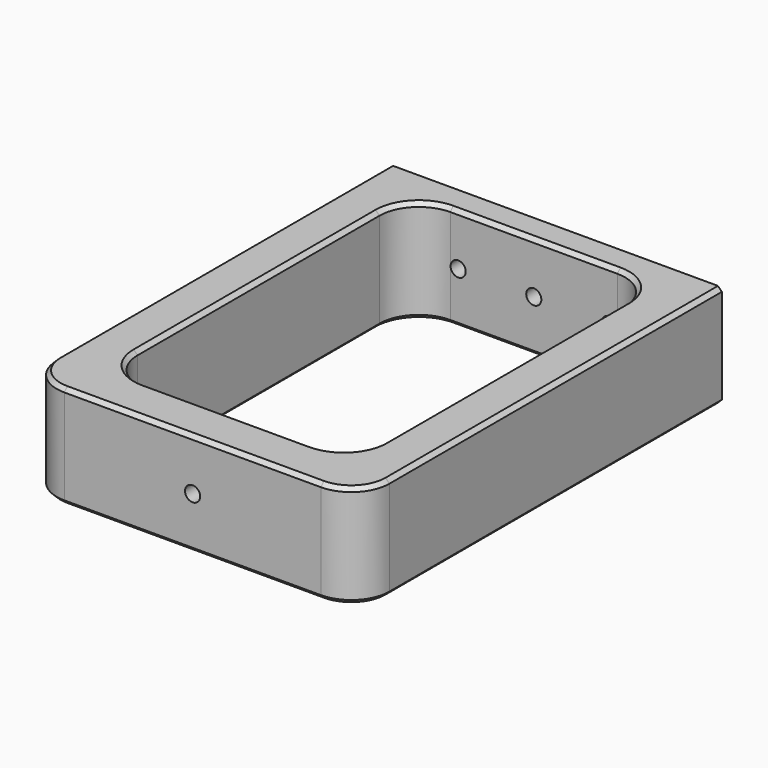
from build123d import *

# Parameters (mm, degrees)
F0_W      = 34.925
F0_H      = 52.705
F1_DEPTH  = 10.795
F2_DEPTH  = 10.795
F3_W      = 25.781
F3_H      = 43.18
F3_H_2    = 36.83
F4_DEPTH  = 25.4
F5_R      = 8.255
F6_W      = 34.925
F6_H      = 19.05
F7_DEPTH  = 5.08
F8_R      = 1.5875
F9_DEPTH  = 50.8
F10_R     = 7.493
F11_DEPTH = 76.2
F12_R     = 8.001
F13_R     = 1.5875
F14_DEPTH = 25.4
F15_SIZE  = 0.762
F16_R     = 2.54
F17_SIZE  = 0.8255
F19_W     = 73.3495355977
F19_H     = 43.3503502247
F20_DEPTH = 25.4
F21_R     = 1.5875
F22_DEPTH = 25.4


with BuildPart() as f1:
    # F0 (on Top) → F1 (new body)
    with BuildSketch(Plane.XY):
        with Locations((-17.4625, -26.3525)):
            Rectangle(F0_W, F0_H)
        with Locations((-17.4625, 26.3525)):
            Rectangle(F0_W, F0_H)
        Polygon((0, 52.705), (0, 0), (0, -52.705), (34.925, -52.705), (34.925, 0), (34.925, 52.705), align=None)
    extrude(amount=F1_DEPTH)

    # F0 (on Top) → F2 (join)
    with BuildSketch(Plane.XY):
        with Locations((-17.4625, -26.3525)):
            Rectangle(F0_W, F0_H)
        with Locations((-17.4625, 26.3525)):
            Rectangle(F0_W, F0_H)
        Polygon((0, 52.705), (0, 0), (0, -52.705), (34.925, -52.705), (34.925, 0), (34.925, 52.705), align=None)
    extrude(amount=-F2_DEPTH)

    # F3 (on face) → F4 (cut)
    with BuildSketch(Plane.XY.offset(10.795)):
        with Locations((-12.8905, -21.59)):
            Rectangle(F3_W, F3_H)
        with Locations((-12.8905, 18.415)):
            Rectangle(F3_W, F3_H_2)
        with Locations((12.8905, -21.59)):
            Rectangle(F3_W, F3_H)
        with Locations((12.8905, 18.415)):
            Rectangle(F3_W, F3_H_2)
    extrude(amount=-F4_DEPTH, mode=Mode.SUBTRACT)

    # F5
    f5_edges = [f1.edges().sort_by_distance(p)[0] for p in [
        (-25.781, 36.83, 0),
        (25.781, 36.83, 0),
        (-25.781, -43.18, 0),
        (25.781, -43.18, 0),
    ]]
    fillet(f5_edges, radius=F5_R)

    # F6 (on face) → F7 (join)
    with BuildSketch(Plane(origin=(0, 52.705, 0), x_dir=(-1, 0, 0), z_dir=(0, 1, 0))):
        Polygon((-34.925, 0), (0, 0), (0, -19.05), (34.925, -19.05), (34.925, 0), (34.925, 19.05), (0, 19.05), (-34.925, 19.05), align=None)
        with Locations((-17.4625, -9.525)):
            Rectangle(F6_W, F6_H)
    extrude(amount=-F7_DEPTH)

    # F8 (on face) → F9 (cut)
    with BuildSketch(Plane.XZ.offset(-47.625)):
        with Locations((22.225, 15.24)):
            Circle(F8_R)
        with Locations((0, 15.24)):
            Circle(F8_R)
        with Locations((0, -15.24)):
            Circle(F8_R)
        with Locations((22.225, -15.24)):
            Circle(F8_R)
        with Locations((-22.225, 15.24)):
            Circle(F8_R)
        with Locations((-22.225, -15.24)):
            Circle(F8_R)
    extrude(amount=-F9_DEPTH, mode=Mode.SUBTRACT)

    # F10 (on face) → F11 (cut)
    with BuildSketch(Plane(origin=(-34.925, 0, 0), x_dir=(0, -1, 0), z_dir=(-1, 0, 0))):
        with Locations((-52.705, 0)):
            Circle(F10_R)
    extrude(amount=-F11_DEPTH, mode=Mode.SUBTRACT)

    # F12
    f12_edges = [f1.edges().sort_by_distance(p)[0] for p in [
        (34.925, -52.705, 0),
        (-34.925, -52.705, 0),
    ]]
    fillet(f12_edges, radius=F12_R)

    # F13 (on face) → F14 (cut)
    with BuildSketch(Plane(origin=(0, 52.705, 0), x_dir=(-1, 0, 0), z_dir=(0, 1, 0))):
        Circle(F13_R)
        with Locations((-15.875, 0)):
            Circle(F13_R)
        with Locations((15.875, 0)):
            Circle(F13_R)
    extrude(amount=-F14_DEPTH, mode=Mode.SUBTRACT)

    # F15
    f15_edges = [f1.edges().sort_by_distance(p)[0] for p in [
        (17.4625, 45.212, 0),
        (1.5875, 45.212, 0),
        (-14.2875, 45.212, 0),
    ]]
    chamfer(f15_edges, length=F15_SIZE)

    # F16
    f16_edges = [f1.edges().sort_by_distance(p)[0] for p in [
        (0, 47.625, -10.795),
        (0, 47.625, 10.795),
    ]]
    fillet(f16_edges, radius=F16_R)

    # F17
    f17_edges = [f1.edges().sort_by_distance(p)[0] for p in [
        (25.781, -3.175, 10.795),
        (34.925, 0.1905, 10.795),
        (34.925, 0.1905, -10.795),
        (25.781, -3.175, -10.795),
        (0, 47.625, -19.05),
        (0, 47.625, 19.05),
    ]]
    chamfer(f17_edges, length=F17_SIZE)

    # F19 (on offset) → F20 (cut)
    with BuildSketch(Plane.XZ.offset(-42.545)):
        with Locations((-0.421330399, -0.413473639)):
            Rectangle(F19_W, F19_H)
    extrude(amount=-F20_DEPTH, mode=Mode.SUBTRACT)

    # F21 (on face) → F22 (cut)
    with BuildSketch(Plane.XZ.offset(52.705)):
        Circle(F21_R)
    extrude(amount=-F22_DEPTH, mode=Mode.SUBTRACT)


solid = f1.part
